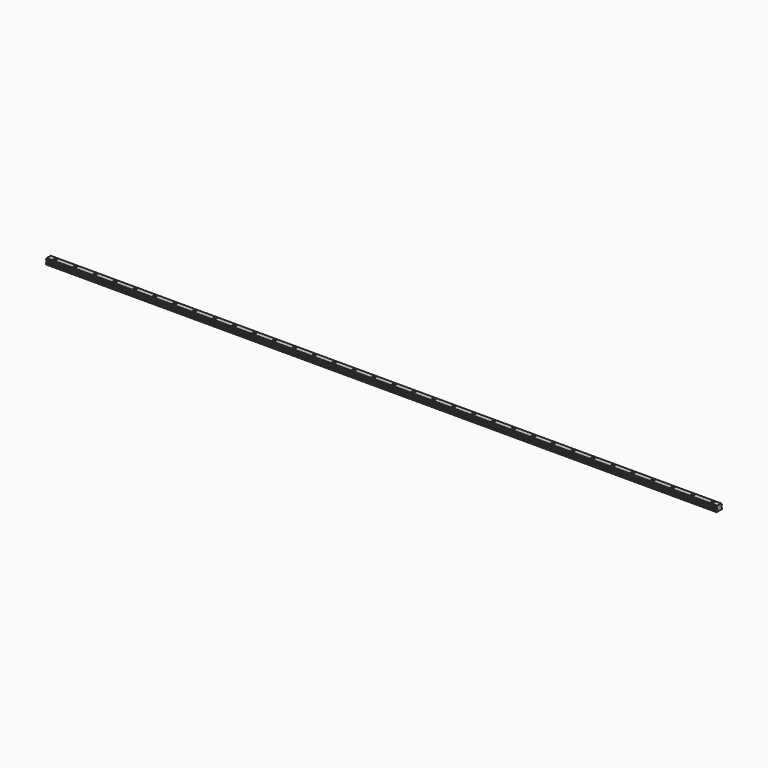
from build123d import *

# Parameters (mm, degrees)
F1_DEPTH       = 2020
F3_D           = 6
F3_CBORE_D     = 9.5
F3_CBORE_DEPTH = 8.5


with BuildPart() as f1:
    # F0 (on Right) → F1 (new body)
    with BuildSketch(Plane.YZ):
        with BuildLine():
            Line((-3, 0.5), (0, 0.5))
            Line((0, 0.5), (3, 0.5))
            Line((3, 0.5), (3.5, 0))
            Line((3.5, 0), (9.5, 0))
            Line((9.5, 0), (10, 0.5))
            Line((10, 0.5), (10, 4.6))
            Line((10, 4.6), (7.525126, 7.074874))
            Line((7.525126, 7.074874), (7.525126, 9.550253))
            Line((7.525126, 9.550253), (7.701903, 9.727029))
            ThreePointArc((7.701903, 9.727029), (8.40901, 11.141243), (9.823223, 11.84835))
            Line((9.823223, 11.84835), (10, 12.025126))
            Line((10, 12.025126), (10, 14.025126))
            Line((10, 14.025126), (9.823223, 14.201903))
            ThreePointArc((9.823223, 14.201903), (8.40901, 14.90901), (7.701903, 16.323223))
            Line((7.701903, 16.323223), (7.525126, 16.5))
            Line((7.525126, 16.5), (0, 16.5))
            Line((0, 16.5), (-7.525126, 16.5))
            Line((-7.525126, 16.5), (-7.701903, 16.323223))
            ThreePointArc((-7.701903, 16.323223), (-8.40901, 14.90901), (-9.823223, 14.201903))
            Line((-9.823223, 14.201903), (-10, 14.025126))
            Line((-10, 14.025126), (-10, 12.025126))
            Line((-10, 12.025126), (-9.823223, 11.84835))
            ThreePointArc((-9.823223, 11.84835), (-8.40901, 11.141243), (-7.701903, 9.727029))
            Line((-7.701903, 9.727029), (-7.525126, 9.550253))
            Line((-7.525126, 9.550253), (-7.525126, 7.074874))
            Line((-7.525126, 7.074874), (-10, 4.6))
            Line((-10, 4.6), (-10, 0.5))
            Line((-10, 0.5), (-9.5, 0))
            Line((-9.5, 0), (-3.5, 0))
            Line((-3.5, 0), (-3, 0.5))
        make_face()
    extrude(amount=F1_DEPTH)

    # F3 (through all)
    with Locations(Plane.XY.offset(16.5)):
        with Locations((20, 0), (80, 0), (140, 0), (200, 0), (260, 0), (320, 0), (380, 0), (500, 0), (440, 0), (560, 0), (620, 0), (680, 0), (740, 0), (800, 0), (860, 0), (920, 0), (980, 0), (1040, 0), (1100, 0), (1160, 0), (1220, 0), (1280, 0), (1340, 0), (1400, 0), (1460, 0), (1520, 0), (1580, 0), (1640, 0), (1700, 0), (1760, 0), (1820, 0), (1880, 0), (1940, 0), (2000, 0)):
            CounterBoreHole(F3_D / 2, F3_CBORE_D / 2, F3_CBORE_DEPTH)


solid = f1.part
